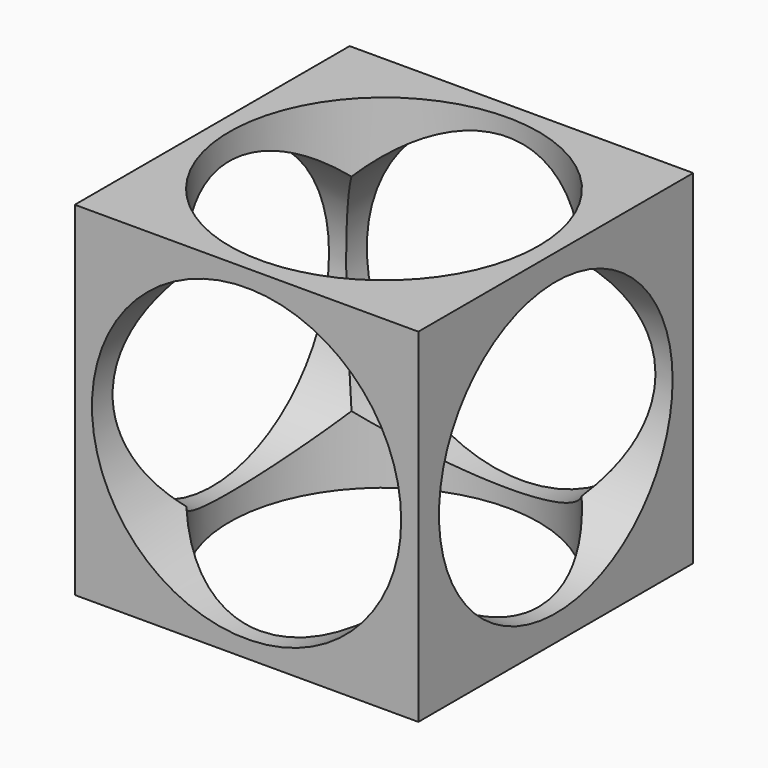
from build123d import *

# Parameters (mm, degrees)
F0_W     = 127
F0_H     = 127
F1_DEPTH = 63.5
F2_R     = 53.975
F3_DEPTH = 127
F4_R     = 57.15
F5_DEPTH = 131.572
F6_R     = 57.15
F7_DEPTH = 143.51


with BuildPart() as f1:
    # F0 (on Right) → F1 (new body, symmetric)
    with BuildSketch(Plane.YZ):
        Rectangle(F0_W, F0_H)
    extrude(amount=F1_DEPTH, both=True)

    # F2 (on face) → F3 (cut, through all)
    with BuildSketch(Plane.YZ.offset(63.5)):
        Circle(F2_R)
    extrude(amount=-F3_DEPTH, mode=Mode.SUBTRACT)

    # F4 (on face) → F5 (cut, symmetric)
    with BuildSketch(Plane.XZ.offset(63.5)):
        Circle(F4_R)
    extrude(amount=F5_DEPTH, both=True, mode=Mode.SUBTRACT)

    # F6 (on face) → F7 (cut, symmetric)
    with BuildSketch(Plane.XY.offset(63.5)):
        Circle(F6_R)
    extrude(amount=F7_DEPTH, both=True, mode=Mode.SUBTRACT)


solid = f1.part
